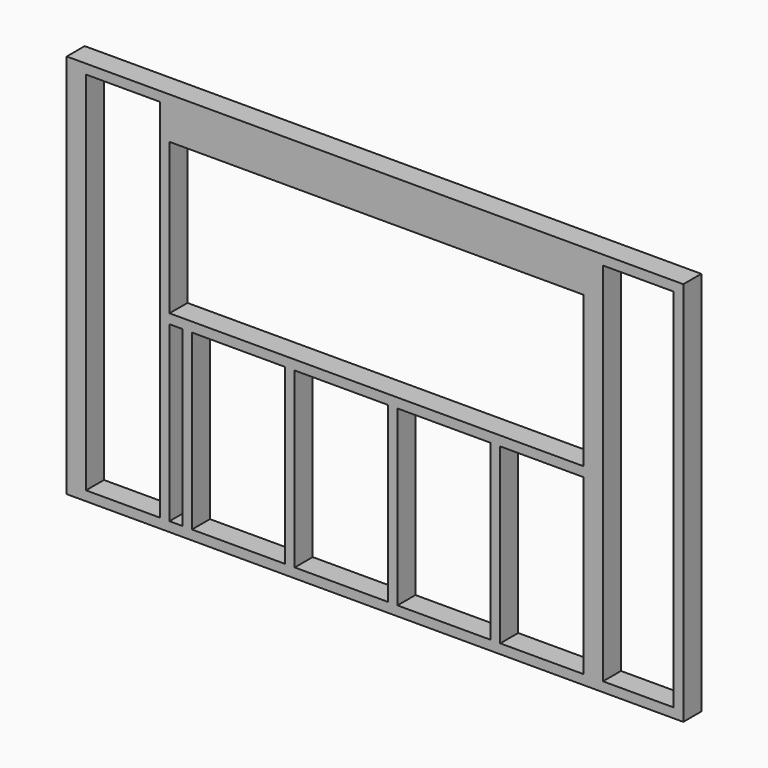
from build123d import *

# Parameters (mm, degrees)
F0_W     = 2438.4
F0_H     = 88.9
F1_DEPTH = 38.1
F2_W     = 38.1
F2_H     = 88.9
F3_DEPTH = 1447.8
F4_W     = 2438.4
F4_H     = 38.1
F5_DEPTH = 88.9
F7_DEPTH = 88.9
F8_W     = 1638.3
F8_H     = 596.9
F9_DEPTH = 215.9


with BuildPart() as f1:
    # F0 (on Top) → F1 (new body)
    with BuildSketch(Plane.XY):
        Rectangle(F0_W, F0_H)
    extrude(amount=F1_DEPTH)

    # F2 (on face) → F3 (join)
    with BuildSketch(Plane.XY.offset(38.1)):
        with Locations((1200.15, 0)):
            Rectangle(F2_W, F2_H)
        with Locations((882.65, 0)):
            Rectangle(F2_W, F2_H)
        with Locations((476.25, 0)):
            Rectangle(F2_W, F2_H)
        with Locations((69.85, 0)):
            Rectangle(F2_W, F2_H)
        with Locations((-336.55, 0)):
            Rectangle(F2_W, F2_H)
        with Locations((-742.95, 0)):
            Rectangle(F2_W, F2_H)
        with Locations((-1200.15, 0)):
            Rectangle(F2_W, F2_H)
        with Locations((-1162.05, 0)):
            Rectangle(F2_W, F2_H)
    extrude(amount=F3_DEPTH)

    # F4 (on face) → F5 (join)
    with BuildSketch(Plane(origin=(0, 44.45, 0), x_dir=(-1, 0, 0), z_dir=(0, 1, 0))):
        with Locations((0, 1504.95)):
            Rectangle(F4_W, F4_H)
    extrude(amount=-F5_DEPTH)

    # F6 (on face) → F7 (join)
    with BuildSketch(Plane.XZ.offset(44.45)):
        Polygon((825.5, 762), (812.8, 762), (-812.8, 762), (-812.8, 723.9), (825.5, 723.9), align=None)
        Polygon((-812.8, 723.9), (-812.8, 762), (-812.8, 1358.9), (-812.8, 1485.9), (-850.9, 1485.9), (-850.9, 38.1), (-812.8, 38.1), align=None)
        Polygon((-812.8, 1358.9), (812.8, 1358.9), (825.5, 1358.9), (825.5, 1485.9), (-812.8, 1485.9), align=None)
        Polygon((825.5, 1358.9), (825.5, 762), (825.5, 723.9), (825.5, 38.1), (863.6, 38.1), (863.6, 1485.9), (825.5, 1485.9), align=None)
    extrude(amount=-F7_DEPTH)

    # F8 (on face) → F9 (cut)
    with BuildSketch(Plane.XZ.offset(44.45)):
        with Locations((6.35, 1060.45)):
            Rectangle(F8_W, F8_H)
    extrude(amount=-F9_DEPTH, mode=Mode.SUBTRACT)


solid = f1.part
